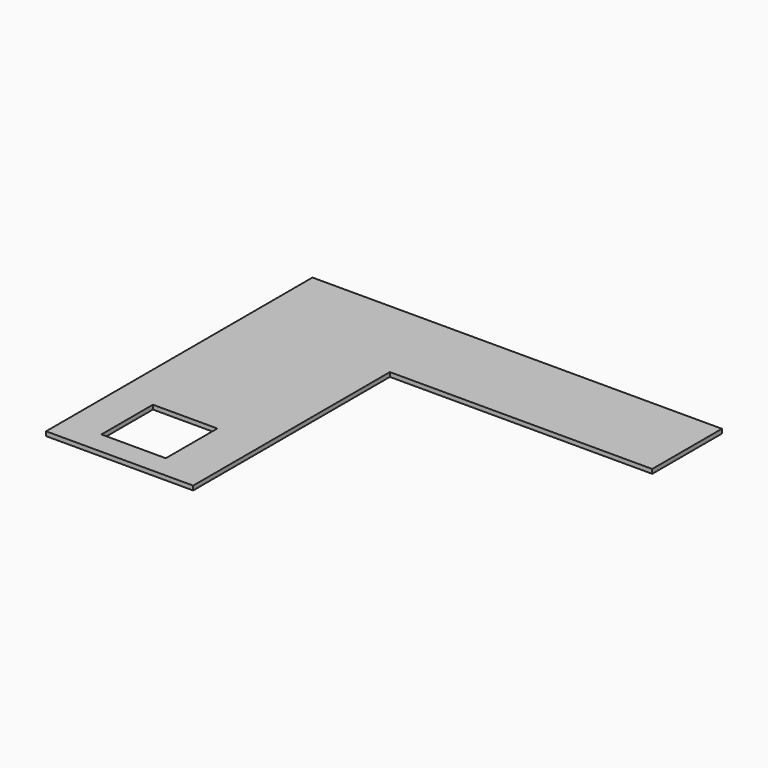
from build123d import *

# Parameters (mm, degrees)
F1_W     = 381
F1_H     = 381
F2_DEPTH = 25.4


with BuildPart() as f2:
    # F1 (on face) → F2 (new body)
    with BuildSketch(Plane.XY):
        Polygon((-651.20703, 1153.104173), (-651.20703, -816.193223), (218.537092, -816.193223), (218.537092, 638.018966), (1770.160675, 638.018966), (1770.160675, 1153.104173), align=None)
        with Locations((-241.564599, -490.763292)):
            Rectangle(F1_W, F1_H, mode=Mode.SUBTRACT)
    extrude(amount=F2_DEPTH)


solid = f2.part
